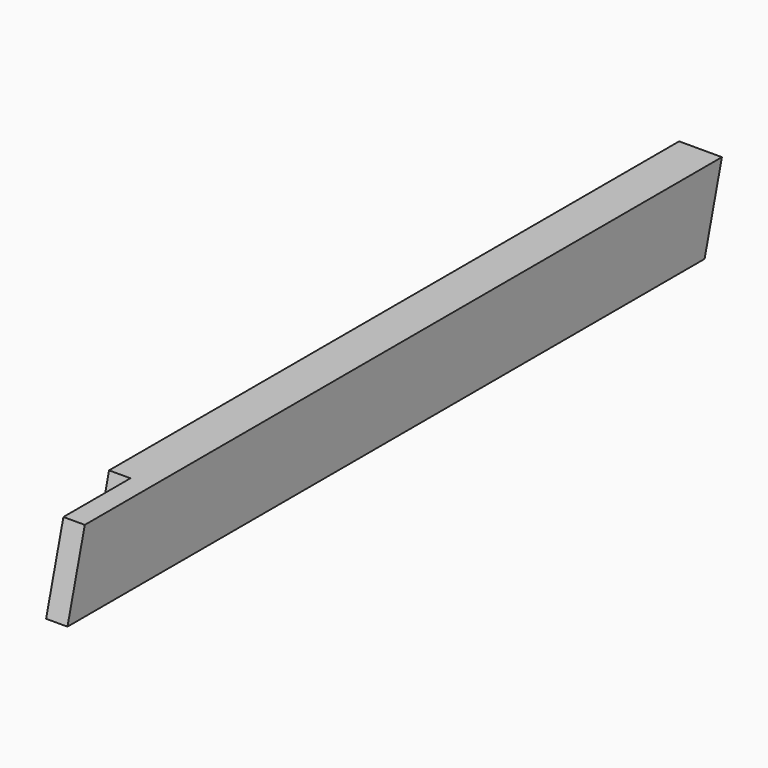
from build123d import *

# Parameters (mm, degrees)
F0_W     = 36
F0_H     = 68
F1_DEPTH = 750
F3_DEPTH = 36
F5_DEPTH = 18


with BuildPart() as f1:
    # F0 (on Front) → F1 (new body)
    with BuildSketch(Plane.XZ):
        Rectangle(F0_W, F0_H)
    extrude(amount=F1_DEPTH)

    # F2 (on face) → F3 (cut, through all)
    with BuildSketch(Plane(origin=(-18, 0, 0), x_dir=(0, -1, 0), z_dir=(-1, 0, 0))):
        Polygon((18.220545, -34), (0, 34), (0, -34), align=None)
        Polygon((750, 34), (670, 34), (688.220545, -34), (750, -34), align=None)
    extrude(amount=-F3_DEPTH, mode=Mode.SUBTRACT)

    # F4 (on face) → F5 (cut)
    with BuildSketch(Plane(origin=(-18, 0, 0), x_dir=(0, -1, 0), z_dir=(-1, 0, 0))):
        Polygon((670, 34), (599.5, 34), (617.720545, -34), (688.220545, -34), align=None)
    extrude(amount=-F5_DEPTH, mode=Mode.SUBTRACT)


solid = f1.part
